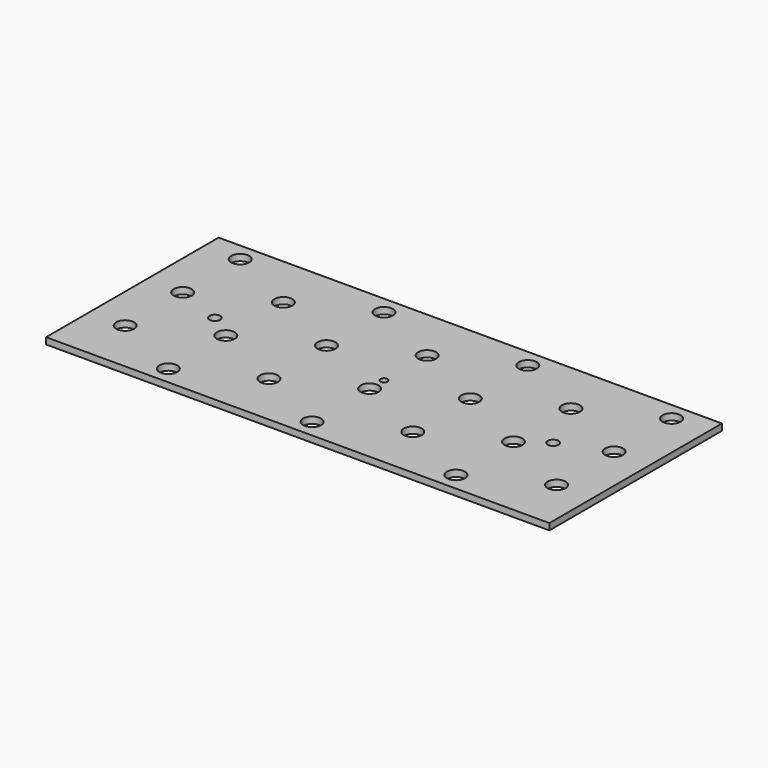
from build123d import *

# Parameters (mm, degrees)
SKETCH_W   = 140
SKETCH_H   = 60
SKETCH_R   = 2.5
SKETCH_R_2 = 1
SKETCH_R_3 = 1.5
PAD_DEPTH  = 1.8


with BuildPart() as part:
    # Sketch → Pad (new body)
    with BuildSketch(Plane.XY):
        with Locations((68.5, 39.5)):
            Rectangle(SKETCH_W, SKETCH_H)
        with Locations((28.5, 14.5)):
            Circle(SKETCH_R, mode=Mode.SUBTRACT)
        with Locations((108.5, 14.5)):
            Circle(SKETCH_R, mode=Mode.SUBTRACT)
        with Locations((8.5, 24.5)):
            Circle(SKETCH_R, mode=Mode.SUBTRACT)
        with Locations((48.5, 24.5)):
            Circle(SKETCH_R, mode=Mode.SUBTRACT)
        with Locations((88.5, 24.5)):
            Circle(SKETCH_R, mode=Mode.SUBTRACT)
        with Locations((8.5, 44.5)):
            Circle(SKETCH_R, mode=Mode.SUBTRACT)
        with Locations((48.5, 44.5)):
            Circle(SKETCH_R, mode=Mode.SUBTRACT)
        with Locations((88.5, 44.5)):
            Circle(SKETCH_R, mode=Mode.SUBTRACT)
        with Locations((28.5, 54.5)):
            Circle(SKETCH_R, mode=Mode.SUBTRACT)
        with Locations((68.5, 54.5)):
            Circle(SKETCH_R, mode=Mode.SUBTRACT)
        with Locations((108.5, 54.5)):
            Circle(SKETCH_R, mode=Mode.SUBTRACT)
        with Locations((88.5, 64.5)):
            Circle(SKETCH_R, mode=Mode.SUBTRACT)
        with Locations((48.5, 64.5)):
            Circle(SKETCH_R, mode=Mode.SUBTRACT)
        with Locations((8.5, 64.5)):
            Circle(SKETCH_R, mode=Mode.SUBTRACT)
        with Locations((28.5, 34.5)):
            Circle(SKETCH_R, mode=Mode.SUBTRACT)
        with Locations((68.5, 34.5)):
            Circle(SKETCH_R, mode=Mode.SUBTRACT)
        with Locations((108.5, 34.5)):
            Circle(SKETCH_R, mode=Mode.SUBTRACT)
        with Locations((68.5, 14.5)):
            Circle(SKETCH_R, mode=Mode.SUBTRACT)
        with Locations((128.5, 24.5)):
            Circle(SKETCH_R, mode=Mode.SUBTRACT)
        with Locations((128.5, 44.5)):
            Circle(SKETCH_R, mode=Mode.SUBTRACT)
        with Locations((128.5, 64.5)):
            Circle(SKETCH_R, mode=Mode.SUBTRACT)
        with Locations((68.5, 39.5)):
            Circle(SKETCH_R_2, mode=Mode.SUBTRACT)
        with Locations((115.550179, 39.5)):
            Circle(SKETCH_R_3, mode=Mode.SUBTRACT)
        with Locations((21.449821, 39.5)):
            Circle(SKETCH_R_3, mode=Mode.SUBTRACT)
    extrude(amount=PAD_DEPTH)


solid = part.part
